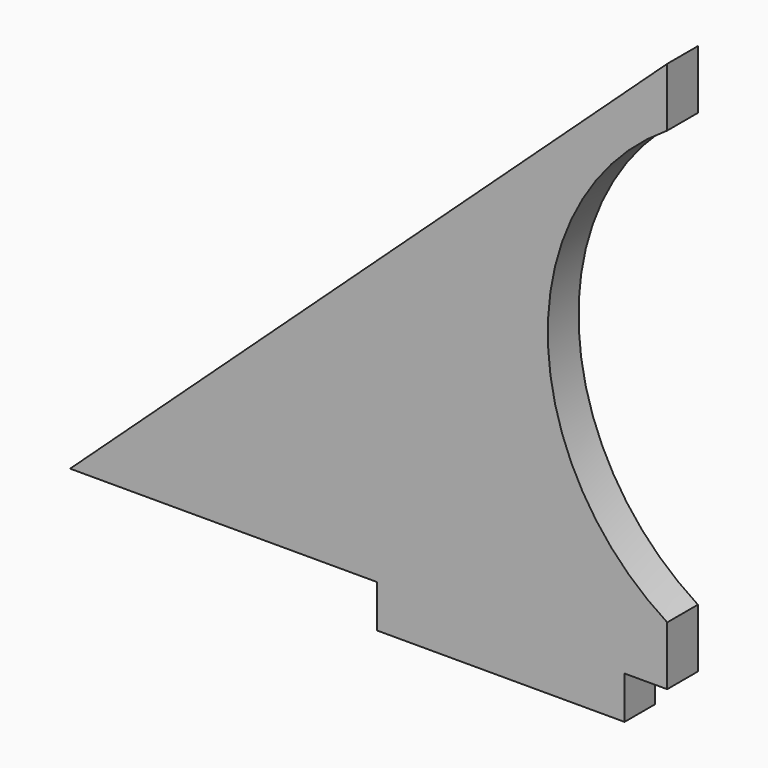
from build123d import *

# Parameters (mm, degrees)
F0_W     = 29
F0_H     = 5
F1_DEPTH = 4.5


with BuildPart() as f1:
    # F0 (on Front) → F1 (new body)
    with BuildSketch(Plane.XZ):
        with BuildLine():
            Line((70, 64.548914), (0, 0))
            Line((0, 0), (36, 0))
            Line((36, 0), (65, 0))
            Line((65, 0), (70, 0))
            Line((70, 0), (70, 6.897302))
            ThreePointArc((70, 6.897302), (56, 32.274457), (70, 57.651612))
            Line((70, 57.651612), (70, 64.548914))
        make_face()
        with Locations((50.5, -2.5)):
            Rectangle(F0_W, F0_H)
    extrude(amount=F1_DEPTH)


solid = f1.part
